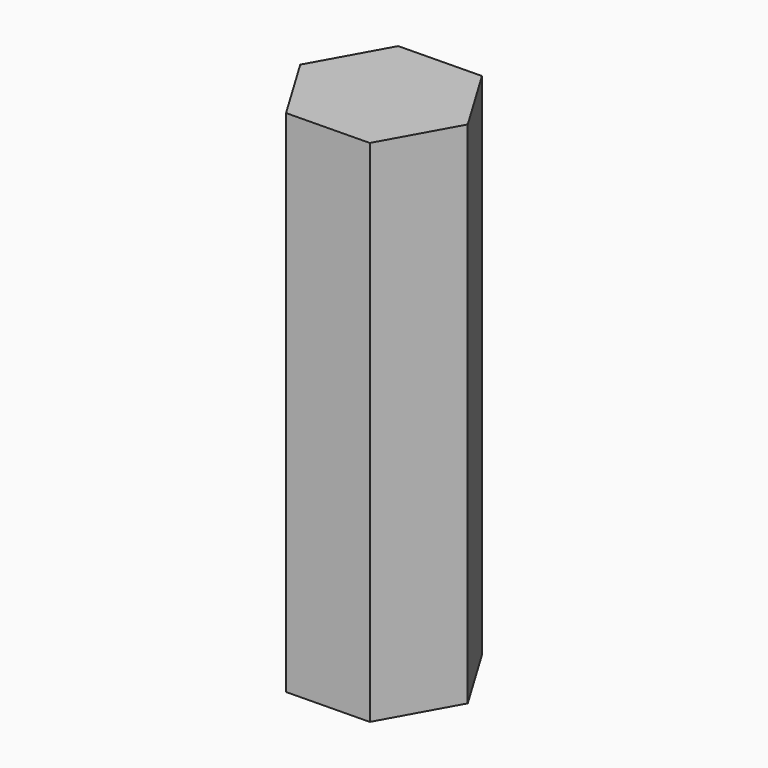
from build123d import *

# Parameters (mm, degrees)
F1_DEPTH = 254
F2_R     = 23.522227
F3_DEPTH = 111.76


with BuildPart() as f1:
    # F0 (on Top) → F1 (new body)
    with BuildSketch(Plane.XY):
        Polygon((-21.18477, 35.333617), (-41.192195, -0.679741), (-20.007425, -36.013357), (21.18477, -35.333617), (41.192195, 0.679741), (20.007425, 36.013357), align=None)
    extrude(amount=F1_DEPTH)

    # F2 (on face) → F3 (join)
    with BuildSketch(Plane.XY.offset(254)):
        Circle(F2_R)
    extrude(amount=-F3_DEPTH)


solid = f1.part
